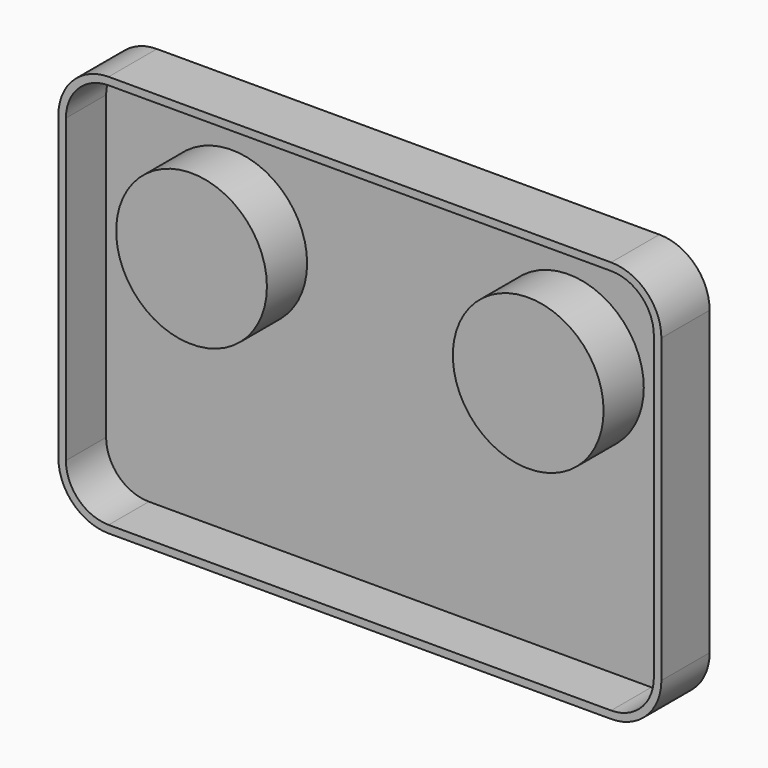
from build123d import *

# Parameters (mm, degrees)
F1_DEPTH = 12
F2_R     = 15
F3_DEPTH = 10
F4_R     = 14.5
F5_DEPTH = 11


with BuildPart() as f1:
    # F0 (on Front) → F1 (new body)
    with BuildSketch(Plane.XZ):
        with BuildLine():
            ThreePointArc((-87.5, -28.3037), (-84.571068, -35.374768), (-77.5, -38.3037))
            Line((-77.5, -38.3037), (22.5, -38.3037))
            ThreePointArc((22.5, -38.3037), (29.571068, -35.374768), (32.5, -28.3037))
            Line((32.5, -28.3037), (32.5, 31.6963))
            ThreePointArc((32.5, 31.6963), (29.571068, 38.767368), (22.5, 41.6963))
            Line((22.5, 41.6963), (-77.5, 41.6963))
            ThreePointArc((-77.5, 41.6963), (-84.571068, 38.767368), (-87.5, 31.6963))
            Line((-87.5, 31.6963), (-87.5, -28.3037))
        make_face()
    extrude(amount=F1_DEPTH)

    # F2 (on face) → F3 (cut)
    with BuildSketch(Plane.XZ.offset(12)):
        with BuildLine():
            Line((31, -28.3037), (31, 31.6963))
            ThreePointArc((31, 31.6963), (28.510408, 37.706708), (22.5, 40.1963))
            Line((22.5, 40.1963), (-77.5, 40.1963))
            ThreePointArc((-77.5, 40.1963), (-83.510408, 37.706708), (-86, 31.6963))
            Line((-86, 31.6963), (-86, -28.3037))
            ThreePointArc((-86, -28.3037), (-83.510408, -34.314108), (-77.5, -36.8037))
            Line((-77.5, -36.8037), (22.5, -36.8037))
            ThreePointArc((22.5, -36.8037), (28.510408, -34.314108), (31, -28.3037))
        make_face()
        with Locations((-61, 15.1963)):
            Circle(F2_R, mode=Mode.SUBTRACT)
        with Locations((6, 15.1963)):
            Circle(F2_R, mode=Mode.SUBTRACT)
    extrude(amount=-F3_DEPTH, mode=Mode.SUBTRACT)

    # F4 (on face) → F5 (cut)
    with BuildSketch(Plane(origin=(0, 0, 0), x_dir=(-1, 0, 0), z_dir=(0, 1, 0))):
        with Locations((-6, 15.1963)):
            Circle(F4_R)
    extrude(amount=-F5_DEPTH, mode=Mode.SUBTRACT)


solid = f1.part
